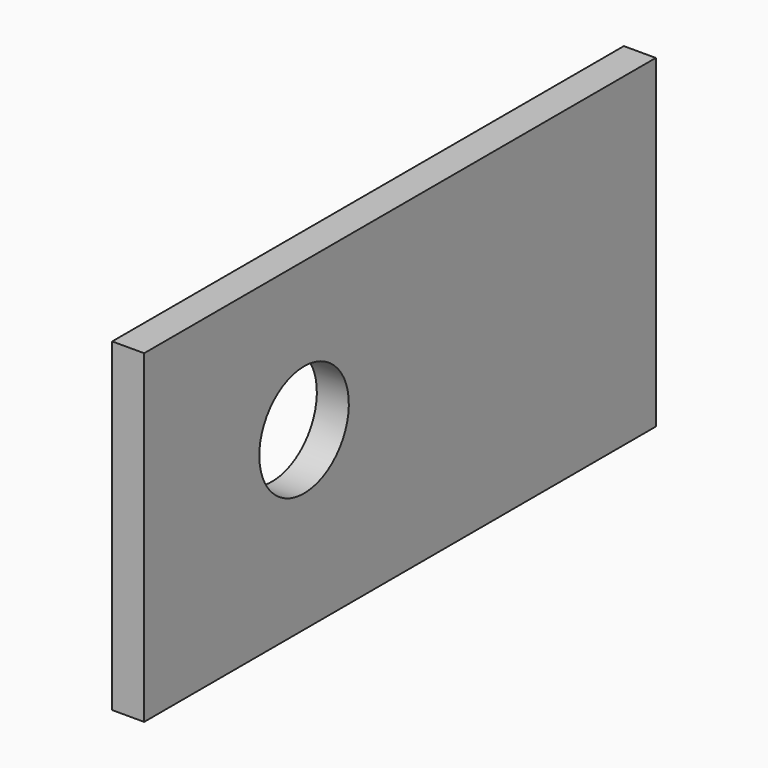
from build123d import *

# Parameters (mm, degrees)
SKETCH007_W             = 18.5
SKETCH007_H             = 4
SKETCH007_W_2           = 5.2
SKETCH007_H_2           = 3.5
BODY006_PLACEMENT_ANGLE = 180
SKETCH005_W             = 40
SKETCH005_H             = 20.3
PAD006_DEPTH            = 2


with BuildPart() as audio_socket_mockup:
    # Sketch007 → Revolution001 (revolve)
    with BuildSketch(Plane.XZ):
        with Locations((9.25, 2)):
            Rectangle(SKETCH007_W, SKETCH007_H)
        with Locations((-2.6, 1.75)):
            Rectangle(SKETCH007_W_2, SKETCH007_H_2)
    revolve(axis=Axis((0, 0, 0), (1, 0, 0)))


with BuildPart() as audio_socket_mockup_1:
    # Body006 placement: moved
    add(audio_socket_mockup.part.moved(Location((18, -7.5, 11))).rotate(Axis((18, -7.5, 11), (0, 0, 1)), BODY006_PLACEMENT_ANGLE))


with BuildPart() as audio_cut:
    # Sketch005 → Pad006 (new body)
    with BuildSketch(Plane.YZ):
        with Locations((0, 10.15)):
            Rectangle(SKETCH005_W, SKETCH005_H)
    extrude(amount=PAD006_DEPTH)


with BuildPart() as audio_cut_1:
    # Body004 placement: moved
    add(audio_cut.part.moved(Location((18, 0, 0))))

    # Cut001: cut audio socket mockup
    add(audio_socket_mockup_1.part, mode=Mode.SUBTRACT)


with BuildPart() as audio_cut_2:
    # Cut001 placement: moved
    add(audio_cut_1.part.moved(Location((-1.5, 0, 0))))


solid = audio_cut_2.part
